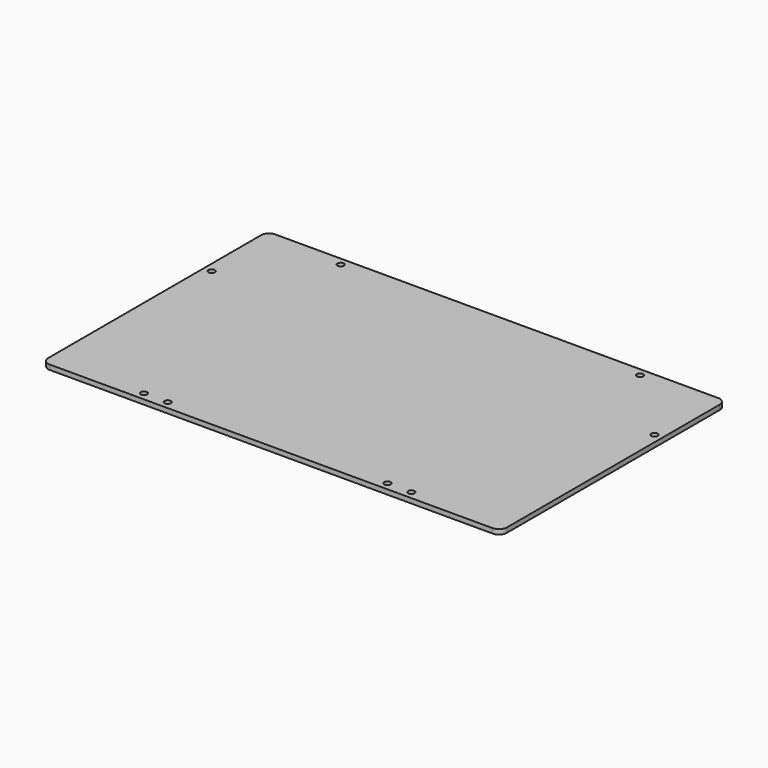
from build123d import *

# Parameters (mm, degrees)
F0_W     = 288
F0_H     = 177
F0_R     = 2
F1_DEPTH = 3
F2_R     = 5


with BuildPart() as f1:
    # F0 (on Top) → F1 (new body)
    with BuildSketch(Plane.XY):
        with Locations((0, 7.5)):
            Rectangle(F0_W, F0_H)
        with Locations((-84, -76)):
            Circle(F0_R, mode=Mode.SUBTRACT)
        with Locations((-69, -76)):
            Circle(F0_R, mode=Mode.SUBTRACT)
        with Locations((69, -76)):
            Circle(F0_R, mode=Mode.SUBTRACT)
        with Locations((84, -76)):
            Circle(F0_R, mode=Mode.SUBTRACT)
        with Locations((-139, 46)):
            Circle(F0_R, mode=Mode.SUBTRACT)
        with Locations((-94, 91)):
            Circle(F0_R, mode=Mode.SUBTRACT)
        with Locations((139, 46)):
            Circle(F0_R, mode=Mode.SUBTRACT)
        with Locations((94, 91)):
            Circle(F0_R, mode=Mode.SUBTRACT)
    extrude(amount=F1_DEPTH)

    # F2
    f2_edges = [f1.edges().sort_by_distance(p)[0] for p in [
        (-144, 96, 1.5),
        (144, 96, 1.5),
        (144, -81, 1.5),
        (-144, -81, 1.5),
    ]]
    fillet(f2_edges, radius=F2_R)


solid = f1.part
